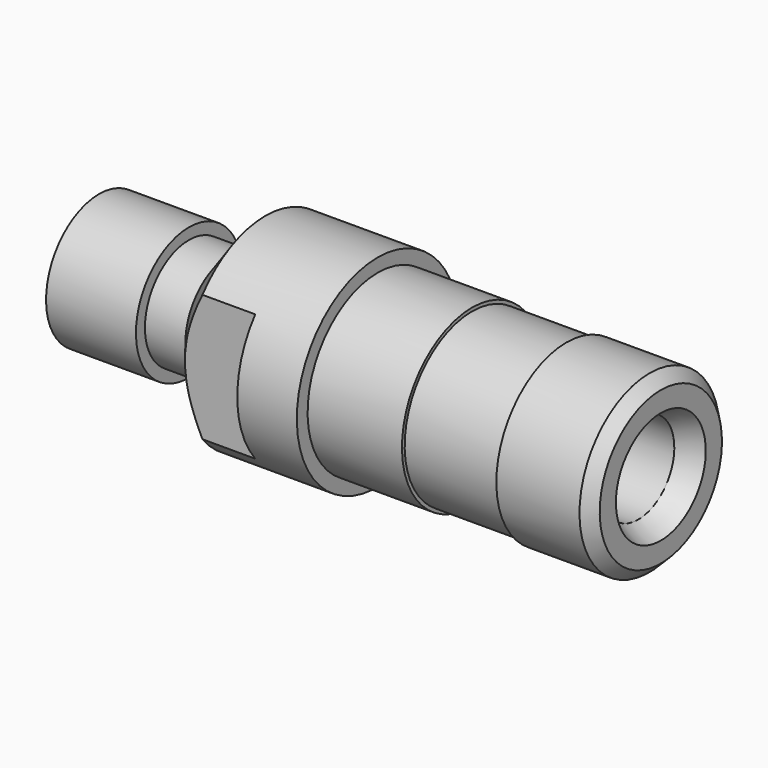
from build123d import *

# Parameters (mm, degrees)
F2_SIZE  = 0.5
F3_SIZE2 = 0.5
F3_SIZE  = 1
F4_W     = 4
F4_H     = 2
F5_DEPTH = 12.5


with BuildPart() as f1:
    # F0 (on Front) → F1 (revolve)
    with BuildSketch(Plane.XZ):
        Polygon((4, 2.95), (0, 2.95), (0, 2), (25, 2), (25, 3.9), (20.8, 3.9), (20.8, 3.75), (16.6, 3.75), (16.6, 3.9), (12.4, 3.9), (12.4, 4.5), (7.4, 4.5), (5.8, 2.45), (4, 2.45), align=None)
    revolve(axis=Axis((19.6164940708, 0, 0), (-1, 0, 0)))

    # F2
    f2_edges = [f1.edges().sort_by_distance(p)[0] for p in [
        (25, 0, -3.9),
    ]]
    chamfer(f2_edges, length=F2_SIZE)

    # F3
    f3_edges = [f1.edges().sort_by_distance(p)[0] for p in [
        (25, 0, -2),
    ]]
    f3_side = f1.faces().sort_by_distance((12.5, 0, -2))[0]
    chamfer(f3_edges, length=F3_SIZE, length2=F3_SIZE2, reference=f3_side)

    # F4 (on Top) → F5 (cut, symmetric)
    with BuildSketch(Plane.XY):
        with Locations((7.75, 4.5)):
            Rectangle(F4_W, F4_H)
        with Locations((7.75, -4.5)):
            Rectangle(F4_W, F4_H)
    extrude(amount=F5_DEPTH, both=True, mode=Mode.SUBTRACT)


solid = f1.part
